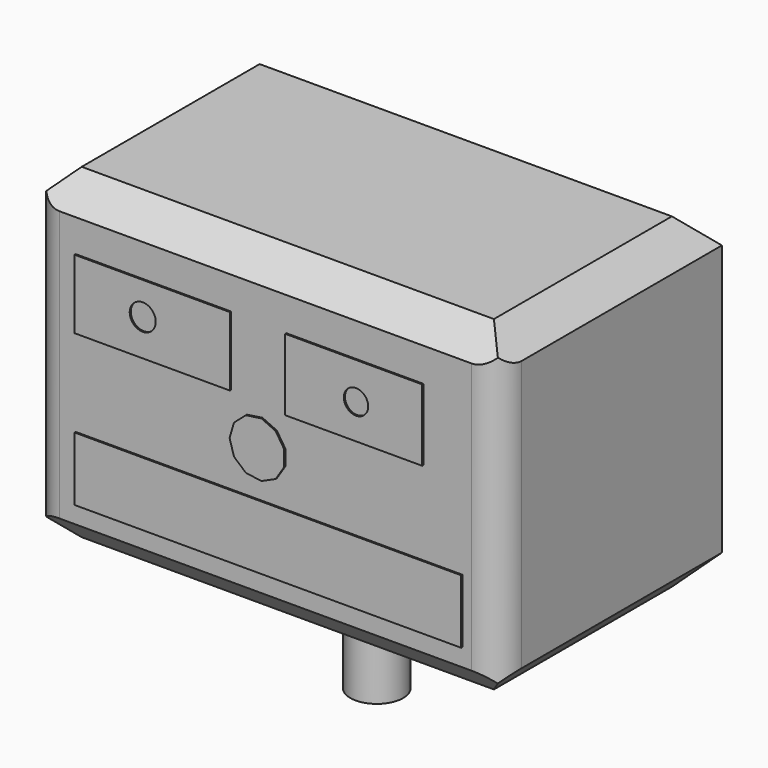
from build123d import *

# Parameters (mm, degrees)
F0_W     = 85.4783095419
F0_H     = 59.5757905394
F1_DEPTH = 50.8
F2_W     = 28.3403936774
F2_H     = 12.6175824553
F2_R     = 2.3774170248
F2_W_2   = 25.0316578895
F2_H_2   = 13.0906309932
F2_R_2   = 2.2246950569
F2_W_3   = 70.6177633256
F2_H_3   = 11.6556163412
F3_DEPTH = 0.254
F4_SIZE  = 5.08
F5_R     = 5.08
F6_SCALE = 0.5
F7_R     = 2.413
F8_DEPTH = 10.16


with BuildPart() as f1:
    # F0 (on Front) → F1 (new body)
    with BuildSketch(Plane.XZ):
        with Locations((6.331725046, 10.3610074148)):
            Rectangle(F0_W, F0_H)
    extrude(amount=F1_DEPTH)

    # F2 (on face) → F3 (join)
    with BuildSketch(Plane.XZ.offset(50.8)):
        with Locations((-14.1701968387, 22.8276690468)):
            Rectangle(F2_W, F2_H)
        with Locations((-15.9050039947, 23.1631565839)):
            Circle(F2_R, mode=Mode.SUBTRACT)
        with Locations((22.638711147, 22.3876358941)):
            Rectangle(F2_W_2, F2_H_2)
        with Locations((23.0593848974, 22.195097059)):
            Circle(F2_R_2, mode=Mode.SUBTRACT)
        Polygon((9.9397739728, 7.435437333), (9.9397739728, 10.3037140541), (8.3890665016, 12.7166619788), (5.7799902246, 13.9081871902), (2.9409084248, 13.4999888525), (0.7732095137, 11.6216670538), (-0.0348774207, 8.8695756935), (0.7732095137, 6.1174843332), (2.9409084248, 4.2391625345), (5.7799902246, 3.8309641968), (8.3890665016, 5.0224894082), align=None)
        with Locations((6.9684879854, -5.284418934)):
            Rectangle(F2_W_3, F2_H_3)
    extrude(amount=F3_DEPTH)

    # F4
    f4_edges = [f1.edges().sort_by_distance(p)[0] for p in [
        (49.07088, -25.4, 40.148903),
        (-36.40743, -25.4, 40.148903),
        (6.331725, 0, 40.148903),
        (6.331725, -50.8, 40.148903),
        (-36.40743, -25.4, -19.426888),
        (49.07088, -25.4, -19.426888),
        (6.331725, 0, -19.426888),
        (6.331725, -50.8, -19.426888),
    ]]
    chamfer(f4_edges, length=F4_SIZE)

    # F5
    f5_edges = [f1.edges().sort_by_distance(p)[0] for p in [
        (-36.40743, -50.8, 10.361007),
        (49.07088, -50.8, 10.361007),
    ]]
    fillet(f5_edges, radius=F5_R)


with BuildPart() as f1_1:
    # F6: moved
    add(f1.part.scale(F6_SCALE))

    # F7 (on face) → F8 (join)
    with BuildSketch(Plane(origin=(0, 0, -9.7134439275), x_dir=(1, 0, 0), z_dir=(0, 0, -1))):
        with Locations((3.165862523, 12.7)):
            Circle(F7_R)
    extrude(amount=F8_DEPTH)


solid = f1_1.part
